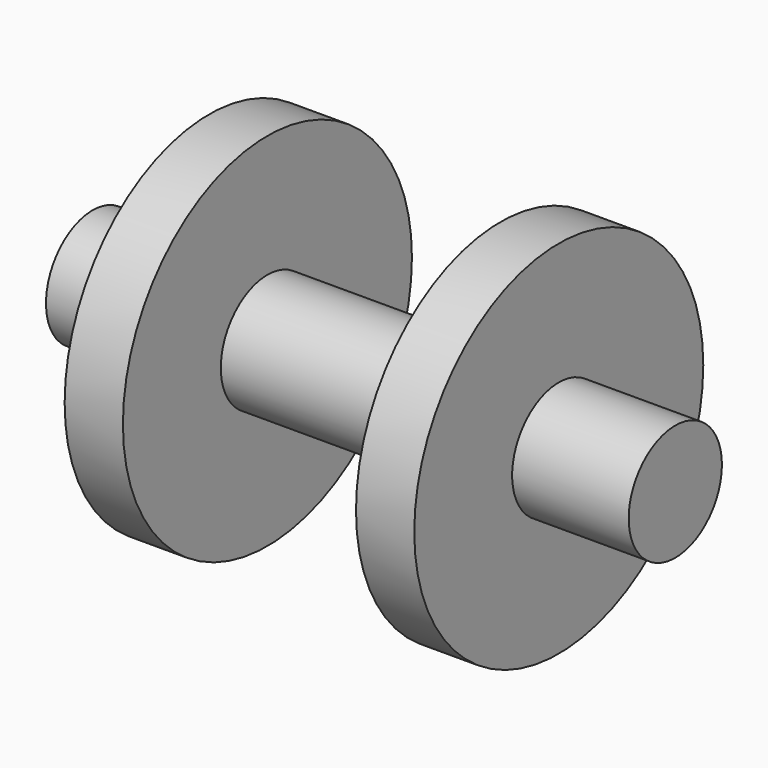
from build123d import *

# Parameters (mm, degrees)
F1_R     = 3.175
F2_DEPTH = 15.875


with BuildPart() as f2:
    # F1 (on Right) → F2 (new body, symmetric)
    with BuildSketch(Plane.YZ):
        Circle(F1_R)
    extrude(amount=F2_DEPTH, both=True)

    # F0 (on Top) → F3 (revolve)
    with BuildSketch(Plane.XY):
        Polygon((-12.7, 0), (12.7, 0), (12.7, 1.5875), (9.525, 1.5875), (9.525, 9.8425), (6.35, 9.8425), (6.35, 3.175), (0, 3.175), (-6.35, 3.175), (-6.35, 9.8425), (-9.525, 9.8425), (-9.525, 1.5875), (-12.7, 1.5875), align=None)
    revolve(axis=Axis((0, 0, 0), (1, 0, 0)))


solid = f2.part
